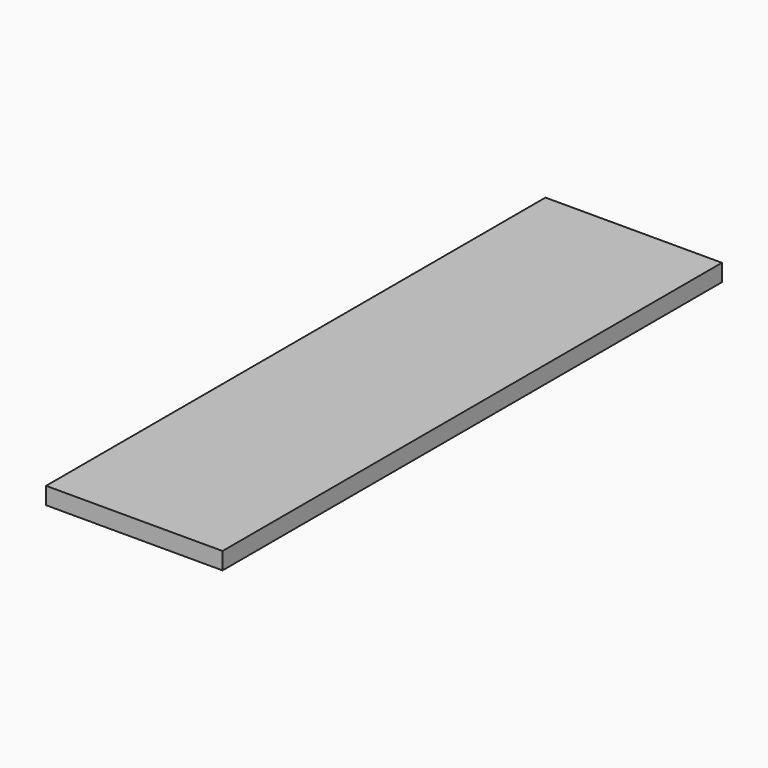
from build123d import *

# Parameters (mm, degrees)
PAD_DEPTH = 13


with BuildPart() as part:
    # Sketch → Pad (new body)
    with BuildSketch(Plane.XY):
        Polygon((0, 474), (134, 474), (134, 0), (0, 0), (0, 237), align=None)
    extrude(amount=PAD_DEPTH)


solid = part.part
